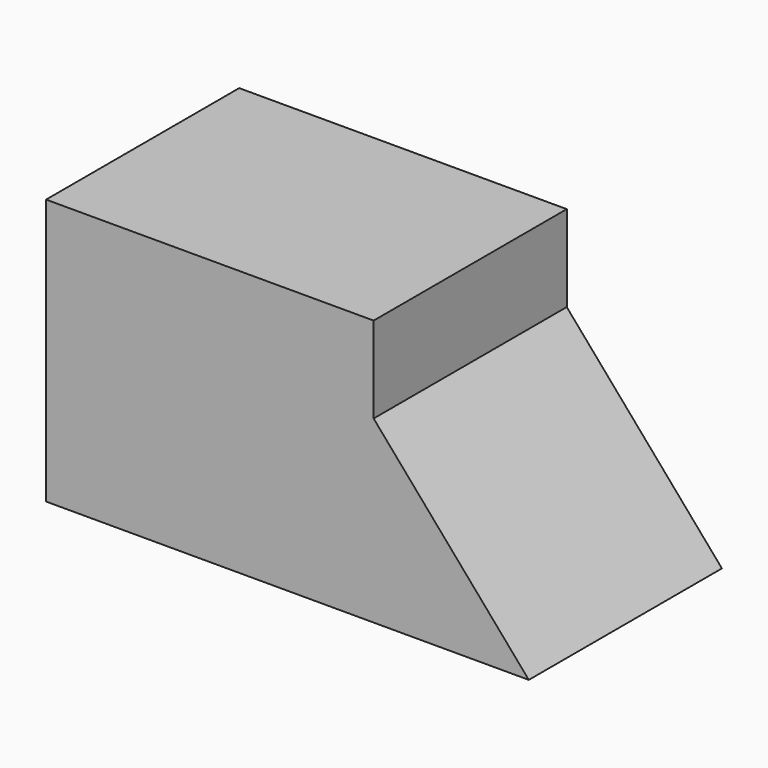
from build123d import *

# Parameters (mm, degrees)
F0_W     = 68.9346306026
F0_H     = 55.9497140348
F1_DEPTH = 50.8
F3_DEPTH = 50.8


with BuildPart() as f1:
    # F0 (on Front) → F1 (new body)
    with BuildSketch(Plane.XZ):
        with Locations((-1.8140692264, 27.9748570174)):
            Rectangle(F0_W, F0_H)
    extrude(amount=F1_DEPTH)

    # F2 (on face) → F3 (join)
    with BuildSketch(Plane.XZ.offset(50.8)):
        Polygon((65.3064921498, 0), (32.6532460749, 37.809021771), (32.6532460749, 0), align=None)
    extrude(amount=-F3_DEPTH)


solid = f1.part
